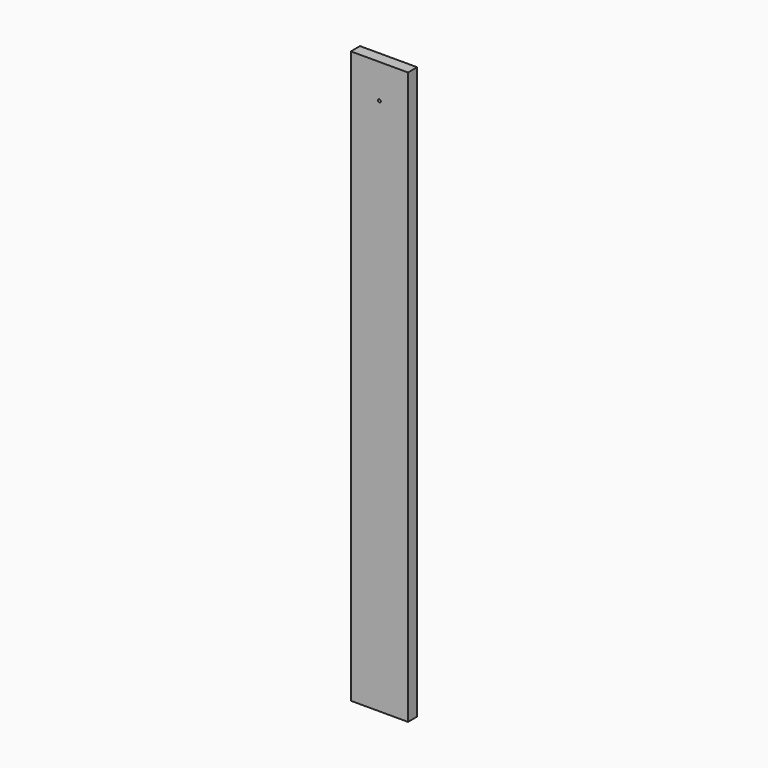
from build123d import *

# Parameters (mm, degrees)
F0_W     = 63.5
F0_H     = 12.7
F1_DEPTH = 635
F2_R     = 1.5875
F3_DEPTH = 12.701


with BuildPart() as f1:
    # F0 (on Top) → F1 (new body)
    with BuildSketch(Plane.XY):
        Rectangle(F0_W, F0_H)
    extrude(amount=F1_DEPTH)

    # F2 (on face) → F3 (cut, through all)
    with BuildSketch(Plane(origin=(0, 6.35, 0), x_dir=(-1, 0, 0), z_dir=(0, 1, 0))):
        with Locations((0, 596.9)):
            Circle(F2_R)
    extrude(amount=-F3_DEPTH, mode=Mode.SUBTRACT)


solid = f1.part
